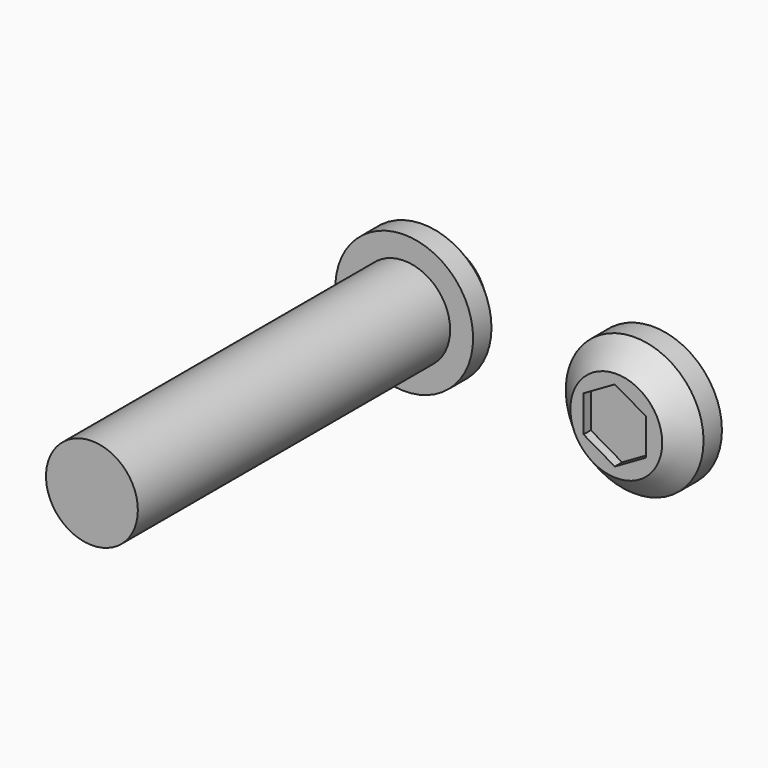
from build123d import *

# Parameters (mm, degrees)
F0_R      = 10
F1_DEPTH  = 85
F0_R_2    = 15
F1_FACE_R = 10
F2_DEPTH  = 10
F3_R      = 15
F3_R_2    = 10
F4_DEPTH  = 10
F5_DEPTH  = 5
F6_SIZE   = 5
F6_2_SIZE = 5
F9_DEPTH  = 7
F12_DEPTH = 2


with BuildPart() as f1:
    # F0 (on Front) → F1 (new body)
    with BuildSketch(Plane.XZ):
        Circle(F0_R)
    extrude(amount=F1_DEPTH)

    # F0 (on Front) + F1_face (on face) → F2 (join)
    with BuildSketch(Plane.XZ):
        Circle(F0_R_2)
        Circle(F0_R, mode=Mode.SUBTRACT)
    with BuildSketch(Plane(origin=(0, 0, 0), x_dir=(1, 0, 0), z_dir=(0, 1, 0))):
        Circle(F1_FACE_R)
    extrude(amount=-F2_DEPTH, dir=(0, -1, 0))

    # F6
    f6_edges = [f1.edges().sort_by_distance(p)[0] for p in [
        (-15, 10, 0),
    ]]
    chamfer(f6_edges, length=F6_SIZE)

    # F8 (on offset) → F9 (cut)
    with BuildSketch(Plane.XZ.offset(-10)):
        Polygon((4.1273763635, 7.1488255635), (-4.1273763635, 7.1488255635), (-8.2547527269, 0), (-4.1273763635, -7.1488255635), (4.1273763635, -7.1488255635), (8.2547527269, 0), align=None)
    extrude(amount=F9_DEPTH, mode=Mode.SUBTRACT)


with BuildPart() as f4:
    # F3 (on Front) → F4 (new body)
    with BuildSketch(Plane.XZ):
        with Locations((54.1754961014, 0)):
            Circle(F3_R)
        with Locations((54.1754961014, 0)):
            Circle(F3_R_2, mode=Mode.SUBTRACT)
        with Locations((54.1754961014, 0)):
            Circle(F3_R_2)
    extrude(amount=F4_DEPTH)

    # F3 (on Front) → F5 (cut)
    with BuildSketch(Plane.XZ):
        with Locations((54.1754961014, 0)):
            Circle(F3_R_2)
    extrude(amount=F5_DEPTH, mode=Mode.SUBTRACT)

    # F6#2
    f6_2_edges = [f4.edges().sort_by_distance(p)[0] for p in [
        (39.175496, -10, 0),
    ]]
    chamfer(f6_2_edges, length=F6_2_SIZE)

    # F11 (on offset) → F12 (cut)
    with BuildSketch(Plane.XZ.offset(10)):
        Polygon((60.6820434332, -3.9397101532), (60.6820434332, 3.9397101532), (53.8582652807, 7.8794203064), (47.0344871283, 3.9397101532), (47.0344871283, -3.9397101532), (53.8582652807, -7.8794203064), align=None)
    extrude(amount=-F12_DEPTH, mode=Mode.SUBTRACT)


solid = Compound([f1.part, f4.part])
